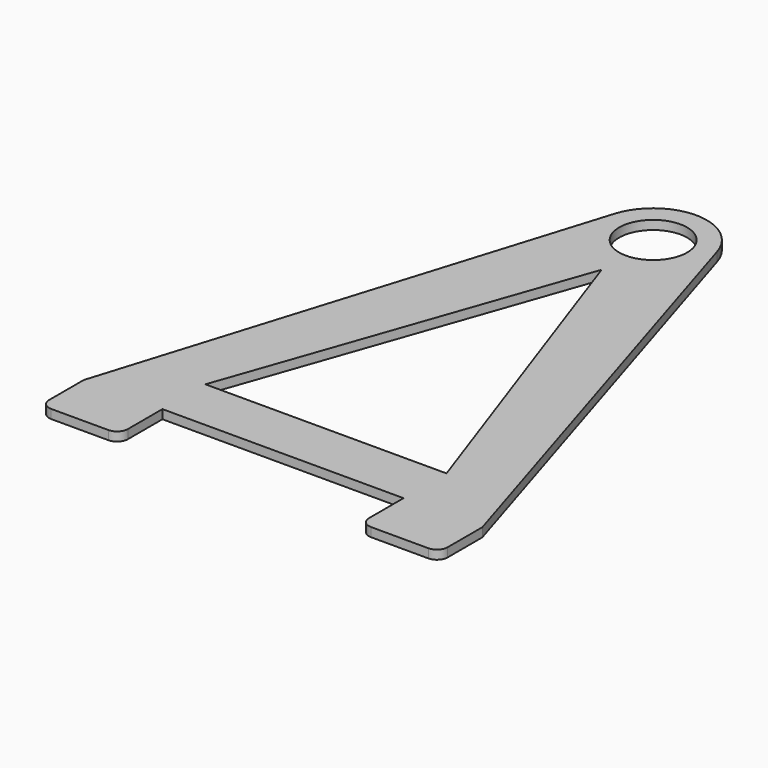
from build123d import *

# Parameters (mm, degrees)
F0_R     = 9.5
F1_DEPTH = 2.5


with BuildPart() as f1:
    # F0 (on Top) → F1 (new body)
    with BuildSketch(Plane.XY):
        with BuildLine():
            ThreePointArc((-14.330367, 68.789729), (-2.241038, 49.526311), (15, 64.357958))
            ThreePointArc((15, 64.357958), (14.831647, 66.598995), (14.330367, 68.789729))
            ThreePointArc((14.330367, 68.789729), (0, 79.357958), (-14.330367, 68.789729))
        make_face()
        with Locations((0, 64.357958)):
            Circle(F0_R, mode=Mode.SUBTRACT)
        with BuildLine():
            ThreePointArc((14.330367, 68.789729), (14.831647, 66.598995), (15, 64.357958))
            ThreePointArc((15, 64.357958), (-2.241038, 49.526311), (-14.330367, 68.789729))
            Line((-14.330367, 68.789729), (-55.684302, -64.930417))
            Line((-55.684302, -64.930417), (-55.684302, -77.022406))
            ThreePointArc((-55.684302, -77.022406), (-54.805622, -79.143726), (-52.684302, -80.022406))
            Line((-52.684302, -80.022406), (-36.684302, -80.022406))
            ThreePointArc((-36.684302, -80.022406), (-34.562982, -79.143726), (-33.684302, -77.022406))
            Line((-33.684302, -77.022406), (-33.684302, -64.930417))
            Line((-33.684302, -64.930417), (33.684302, -64.930417))
            Line((33.684302, -64.930417), (33.684302, -77.022406))
            ThreePointArc((33.684302, -77.022406), (34.562982, -79.143726), (36.684302, -80.022406))
            Line((36.684302, -80.022406), (52.684302, -80.022406))
            ThreePointArc((52.684302, -80.022406), (54.805622, -79.143726), (55.684302, -77.022406))
            Line((55.684302, -77.022406), (55.684302, -64.930417))
            Line((55.684302, -64.930417), (14.330367, 68.789729))
        make_face()
        Polygon((33.684302, -49.930417), (0, -49.930417), (-33.684302, -49.930417), (0, 46.357958), align=None, mode=Mode.SUBTRACT)
    extrude(amount=F1_DEPTH)


solid = f1.part
